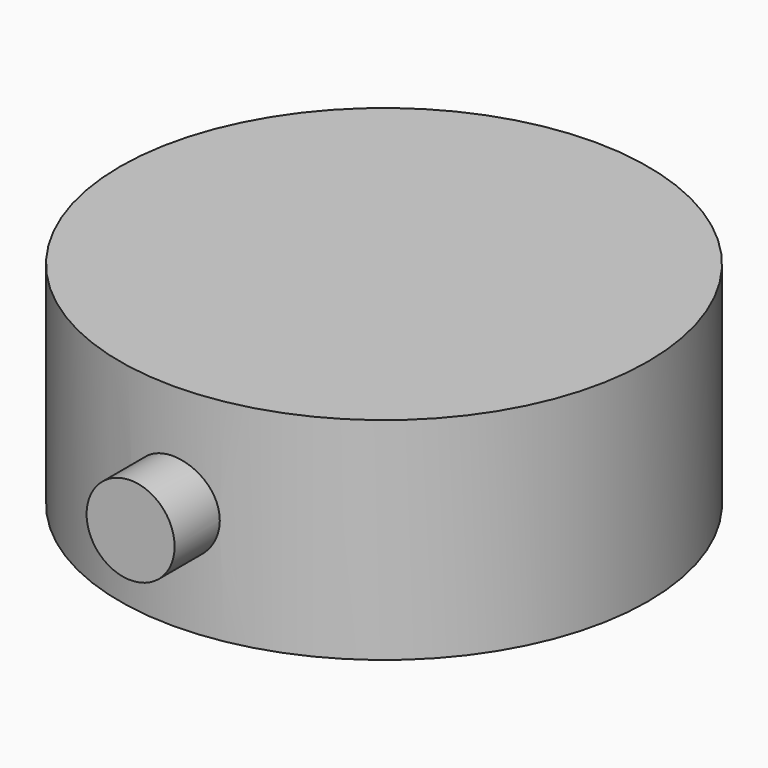
from build123d import *

# Parameters (mm, degrees)
F0_R     = 15
F1_DEPTH = 12
F2_R     = 2.5
F3_DEPTH = 18


with BuildPart() as f1:
    # F0 (on Top) → F1 (new body)
    with BuildSketch(Plane.XY):
        Circle(F0_R)
    extrude(amount=F1_DEPTH)

    # F2 (on Front) → F3 (join)
    with BuildSketch(Plane.XZ):
        with Locations((0, 6)):
            Circle(F2_R)
    extrude(amount=F3_DEPTH)


solid = f1.part
